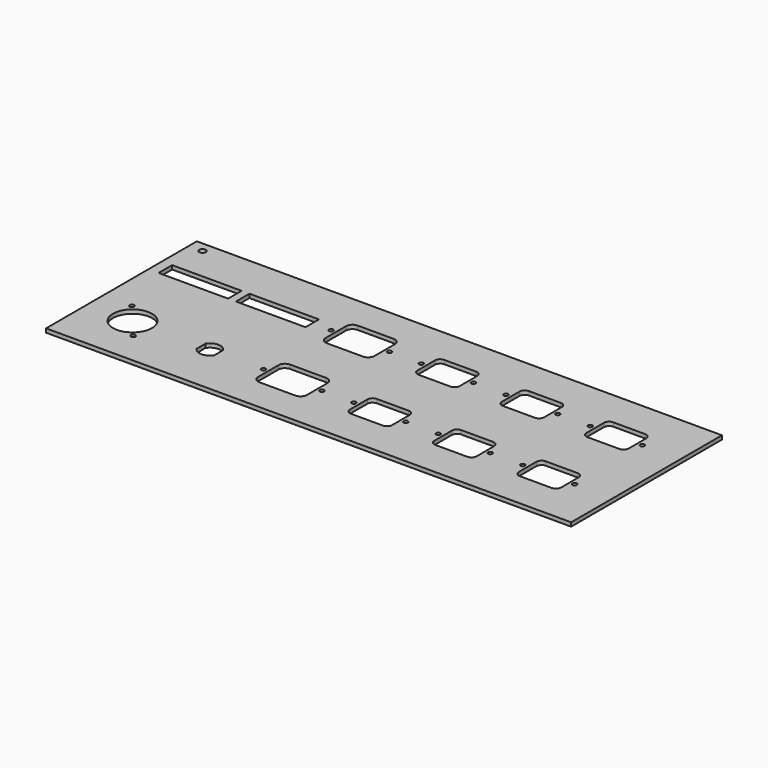
from build123d import *

# Parameters (mm, degrees)
F0_W     = 404
F0_H     = 145
F2_DEPTH = 3
F3_D     = 3.3
F3_DEPTH = 8.6
F3_TIP   = 0.9914200214
F1_R     = 1.5
F1_R_2   = 15
F1_R_3   = 1.75
F1_W     = 53.5
F1_H     = 13
F1_R_4   = 2.5
F4_DEPTH = 25


with BuildPart() as f2:
    # F0 (on Top) → F2 (new body)
    with BuildSketch(Plane.XY):
        with Locations((-14.1859020234, -7.6260944492)):
            Rectangle(F0_W, F0_H)
    extrude(amount=-F2_DEPTH)

    # F3
    with Locations(Plane.XY):
        with Locations((118.573140085, 24.8739055508), (158.573140085, 24.8739055508), (93.573140085, 24.8739055508), (53.573140085, 24.8739055508), (53.573140085, -40.1260944492), (93.573140085, -40.1260944492), (118.573140085, -40.1260944492), (158.573140085, -40.1260944492), (28.573140085, -40.1260944492), (-11.426859915, -40.1260944492), (-11.426859915, 24.8739055508), (28.573140085, 24.8739055508), (-35.926859915, 24.8739055508), (-80.926859915, 24.8739055508), (-80.926859915, -40.1260944492), (-35.926859915, -40.1260944492)):
            Hole(F3_D / 2, depth=F3_DEPTH)
            with Locations((0, 0, -(F3_DEPTH + F3_TIP / 2))):  # 118° drill point
                Cone(0, F3_D / 2, F3_TIP, mode=Mode.SUBTRACT)

    # F1 (on Top) → F4 (cut)
    with BuildSketch(Plane.XY):
        with BuildLine():
            Line((126.323140085, 12.4739055508), (150.823140085, 12.4739055508))
            ThreePointArc((150.823140085, 12.4739055508), (153.6515672098, 13.645478426), (154.823140085, 16.4739055508))
            Line((154.823140085, 16.4739055508), (154.823140085, 33.2739055508))
            ThreePointArc((154.823140085, 33.2739055508), (153.6515672098, 36.1023326755), (150.823140085, 37.2739055508))
            Line((150.823140085, 37.2739055508), (126.323140085, 37.2739055508))
            ThreePointArc((126.323140085, 37.2739055508), (123.4947129603, 36.1023326755), (122.323140085, 33.2739055508))
            Line((122.323140085, 33.2739055508), (122.323140085, 16.4739055508))
            ThreePointArc((122.323140085, 16.4739055508), (123.4947129603, 13.645478426), (126.323140085, 12.4739055508))
        make_face()
        with Locations((158.573140085, 24.8739055508)):
            Circle(F1_R)
        with Locations((118.573140085, 24.8739055508)):
            Circle(F1_R)
        with BuildLine():
            Line((-72.226859915, 10.1239055508), (-44.626859915, 10.1239055508))
            ThreePointArc((-44.626859915, 10.1239055508), (-41.091326009, 11.5883716448), (-39.626859915, 15.1239055508))
            Line((-39.626859915, 15.1239055508), (-39.626859915, 34.6239055508))
            ThreePointArc((-39.626859915, 34.6239055508), (-41.091326009, 38.1594394567), (-44.626859915, 39.6239055508))
            Line((-44.626859915, 39.6239055508), (-72.226859915, 39.6239055508))
            ThreePointArc((-72.226859915, 39.6239055508), (-75.7623938209, 38.1594394567), (-77.226859915, 34.6239055508))
            Line((-77.226859915, 34.6239055508), (-77.226859915, 15.1239055508))
            ThreePointArc((-77.226859915, 15.1239055508), (-75.7623938209, 11.5883716448), (-72.226859915, 10.1239055508))
        make_face()
        with Locations((-35.926859915, 24.8739055508)):
            Circle(F1_R)
        with Locations((-80.926859915, 24.8739055508)):
            Circle(F1_R)
        with BuildLine():
            Line((122.323140085, -31.7260944492), (122.323140085, -48.5260944492))
            ThreePointArc((122.323140085, -48.5260944492), (123.4947129603, -51.354521574), (126.323140085, -52.5260944492))
            Line((126.323140085, -52.5260944492), (150.823140085, -52.5260944492))
            ThreePointArc((150.823140085, -52.5260944492), (153.6515672098, -51.354521574), (154.823140085, -48.5260944492))
            Line((154.823140085, -48.5260944492), (154.823140085, -31.7260944492))
            ThreePointArc((154.823140085, -31.7260944492), (153.6515672098, -28.8976673245), (150.823140085, -27.7260944492))
            Line((150.823140085, -27.7260944492), (126.323140085, -27.7260944492))
            ThreePointArc((126.323140085, -27.7260944492), (123.4947129603, -28.8976673245), (122.323140085, -31.7260944492))
        make_face()
        with Locations((158.573140085, -40.1260944492)):
            Circle(F1_R)
        with Locations((118.573140085, -40.1260944492)):
            Circle(F1_R)
        with BuildLine():
            Line((57.323140085, 33.2739055508), (57.323140085, 16.4739055508))
            ThreePointArc((57.323140085, 16.4739055508), (58.4947129603, 13.645478426), (61.323140085, 12.4739055508))
            Line((61.323140085, 12.4739055508), (85.823140085, 12.4739055508))
            ThreePointArc((85.823140085, 12.4739055508), (88.6515672098, 13.645478426), (89.823140085, 16.4739055508))
            Line((89.823140085, 16.4739055508), (89.823140085, 33.2739055508))
            ThreePointArc((89.823140085, 33.2739055508), (88.6515672098, 36.1023326755), (85.823140085, 37.2739055508))
            Line((85.823140085, 37.2739055508), (61.323140085, 37.2739055508))
            ThreePointArc((61.323140085, 37.2739055508), (58.4947129603, 36.1023326755), (57.323140085, 33.2739055508))
        make_face()
        with Locations((93.573140085, 24.8739055508)):
            Circle(F1_R)
        with Locations((53.573140085, 24.8739055508)):
            Circle(F1_R)
        with BuildLine():
            Line((57.323140085, -31.7260944492), (57.323140085, -48.5260944492))
            ThreePointArc((57.323140085, -48.5260944492), (58.4947129603, -51.354521574), (61.323140085, -52.5260944492))
            Line((61.323140085, -52.5260944492), (85.823140085, -52.5260944492))
            ThreePointArc((85.823140085, -52.5260944492), (88.6515672098, -51.354521574), (89.823140085, -48.5260944492))
            Line((89.823140085, -48.5260944492), (89.823140085, -31.7260944492))
            ThreePointArc((89.823140085, -31.7260944492), (88.6515672098, -28.8976673245), (85.823140085, -27.7260944492))
            Line((85.823140085, -27.7260944492), (61.323140085, -27.7260944492))
            ThreePointArc((61.323140085, -27.7260944492), (58.4947129603, -28.8976673245), (57.323140085, -31.7260944492))
        make_face()
        with Locations((93.573140085, -40.1260944492)):
            Circle(F1_R)
        with Locations((53.573140085, -40.1260944492)):
            Circle(F1_R)
        with BuildLine():
            Line((-7.676859915, 33.2739055508), (-7.676859915, 16.4739055508))
            ThreePointArc((-7.676859915, 16.4739055508), (-6.5052870397, 13.645478426), (-3.676859915, 12.4739055508))
            Line((-3.676859915, 12.4739055508), (20.823140085, 12.4739055508))
            ThreePointArc((20.823140085, 12.4739055508), (23.6515672098, 13.645478426), (24.823140085, 16.4739055508))
            Line((24.823140085, 16.4739055508), (24.823140085, 33.2739055508))
            ThreePointArc((24.823140085, 33.2739055508), (23.6515672098, 36.1023326755), (20.823140085, 37.2739055508))
            Line((20.823140085, 37.2739055508), (-3.676859915, 37.2739055508))
            ThreePointArc((-3.676859915, 37.2739055508), (-6.5052870397, 36.1023326755), (-7.676859915, 33.2739055508))
        make_face()
        with Locations((28.573140085, 24.8739055508)):
            Circle(F1_R)
        with Locations((-11.426859915, 24.8739055508)):
            Circle(F1_R)
        with BuildLine():
            Line((-7.676859915, -31.7260944492), (-7.676859915, -48.5260944492))
            ThreePointArc((-7.676859915, -48.5260944492), (-6.5052870397, -51.354521574), (-3.676859915, -52.5260944492))
            Line((-3.676859915, -52.5260944492), (20.823140085, -52.5260944492))
            ThreePointArc((20.823140085, -52.5260944492), (23.6515672098, -51.354521574), (24.823140085, -48.5260944492))
            Line((24.823140085, -48.5260944492), (24.823140085, -31.7260944492))
            ThreePointArc((24.823140085, -31.7260944492), (23.6515672098, -28.8976673245), (20.823140085, -27.7260944492))
            Line((20.823140085, -27.7260944492), (-3.676859915, -27.7260944492))
            ThreePointArc((-3.676859915, -27.7260944492), (-6.5052870397, -28.8976673245), (-7.676859915, -31.7260944492))
        make_face()
        with Locations((28.573140085, -40.1260944492)):
            Circle(F1_R)
        with Locations((-11.426859915, -40.1260944492)):
            Circle(F1_R)
        with BuildLine():
            Line((-77.226859915, -30.3760944492), (-77.226859915, -49.8760944492))
            ThreePointArc((-77.226859915, -49.8760944492), (-75.7623938209, -53.4116283552), (-72.226859915, -54.8760944492))
            Line((-72.226859915, -54.8760944492), (-44.626859915, -54.8760944492))
            ThreePointArc((-44.626859915, -54.8760944492), (-41.091326009, -53.4116283552), (-39.626859915, -49.8760944492))
            Line((-39.626859915, -49.8760944492), (-39.626859915, -30.3760944492))
            ThreePointArc((-39.626859915, -30.3760944492), (-41.091326009, -26.8405605433), (-44.626859915, -25.3760944492))
            Line((-44.626859915, -25.3760944492), (-72.226859915, -25.3760944492))
            ThreePointArc((-72.226859915, -25.3760944492), (-75.7623938209, -26.8405605433), (-77.226859915, -30.3760944492))
        make_face()
        with Locations((-35.926859915, -40.1260944492)):
            Circle(F1_R)
        with Locations((-80.926859915, -40.1260944492)):
            Circle(F1_R)
        with Locations((-181.676859915, -40.1260944492)):
            Circle(F1_R_2)
        with Locations((-169.176859915, -55.1260944492)):
            Circle(F1_R_3)
        with Locations((-194.176859915, -25.1260944492)):
            Circle(F1_R_3)
        with Locations((-181.676859915, 24.8739055508)):
            Rectangle(F1_W, F1_H)
        with Locations((-205.6832462549, 57.1586787701)):
            Circle(F1_R_4)
        with BuildLine():
            Line((-128.976859915, -35.8176724643), (-128.976859915, -44.4345164341))
            ThreePointArc((-128.976859915, -44.4345164341), (-122.176859915, -48.1760944492), (-115.376859915, -44.4345164341))
            Line((-115.376859915, -44.4345164341), (-115.376859915, -35.8176724643))
            ThreePointArc((-115.376859915, -35.8176724643), (-122.176859915, -32.0760944492), (-128.976859915, -35.8176724643))
        make_face()
        with Locations((-122.176859915, 24.8739055508)):
            Rectangle(F1_W, F1_H)
    extrude(amount=-F4_DEPTH, mode=Mode.SUBTRACT)


solid = f2.part
